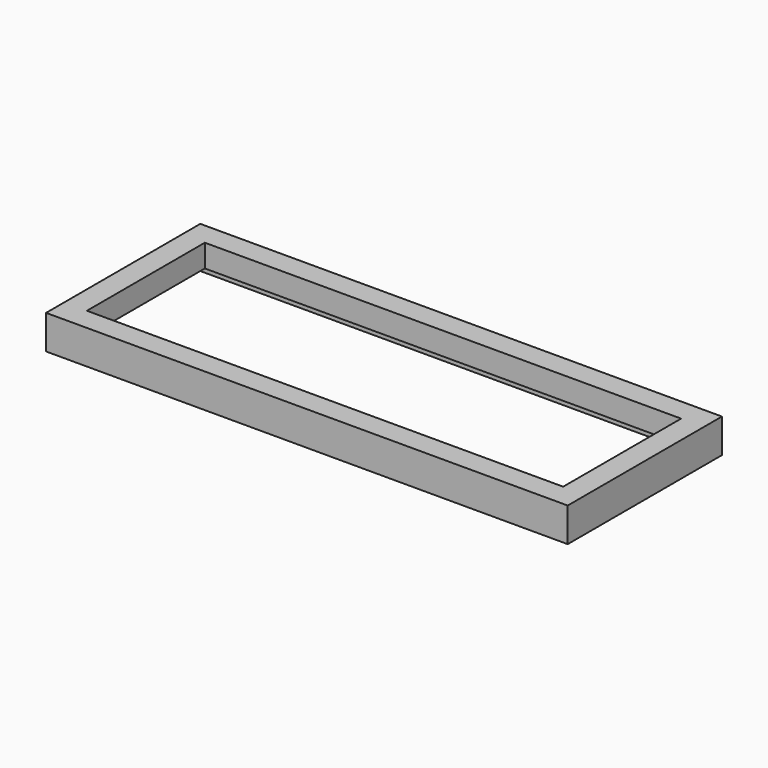
from build123d import *

# Parameters (mm, degrees)
F0_W     = 460
F0_H     = 170
F1_DEPTH = 30
F2_W     = 420
F2_H     = 130
F3_DEPTH = 30
F4_W     = 450
F4_H     = 150
F5_DEPTH = 10
F6_W     = 420
F6_H     = 0.1
F7_DEPTH = 0.1


with BuildPart() as f1:
    # F0 (on Top) → F1 (new body)
    with BuildSketch(Plane.XY):
        with Locations((41.152232, -18.289462)):
            Rectangle(F0_W, F0_H)
    extrude(amount=F1_DEPTH)

    # F2 (on face) → F3 (cut, through all)
    with BuildSketch(Plane.XY.offset(30)):
        with Locations((41.152232, -18.289462)):
            Rectangle(F2_W, F2_H)
    extrude(amount=-F3_DEPTH, mode=Mode.SUBTRACT)

    # F4 (on face) → F5 (cut)
    with BuildSketch(Plane(origin=(0, 0, 0), x_dir=(1, 0, 0), z_dir=(0, 0, -1))):
        with Locations((36.152232, 18.289462)):
            Rectangle(F4_W, F4_H)
    extrude(amount=-F5_DEPTH, mode=Mode.SUBTRACT)

    # F6 (on face) → F7 (cut)
    with BuildSketch(Plane(origin=(0, -83.289462, 0), x_dir=(-1, 0, 0), z_dir=(0, 1, 0))):
        with Locations((-41.152232, 20.05)):
            Rectangle(F6_W, F6_H)
    extrude(amount=-F7_DEPTH, mode=Mode.SUBTRACT)


solid = f1.part
